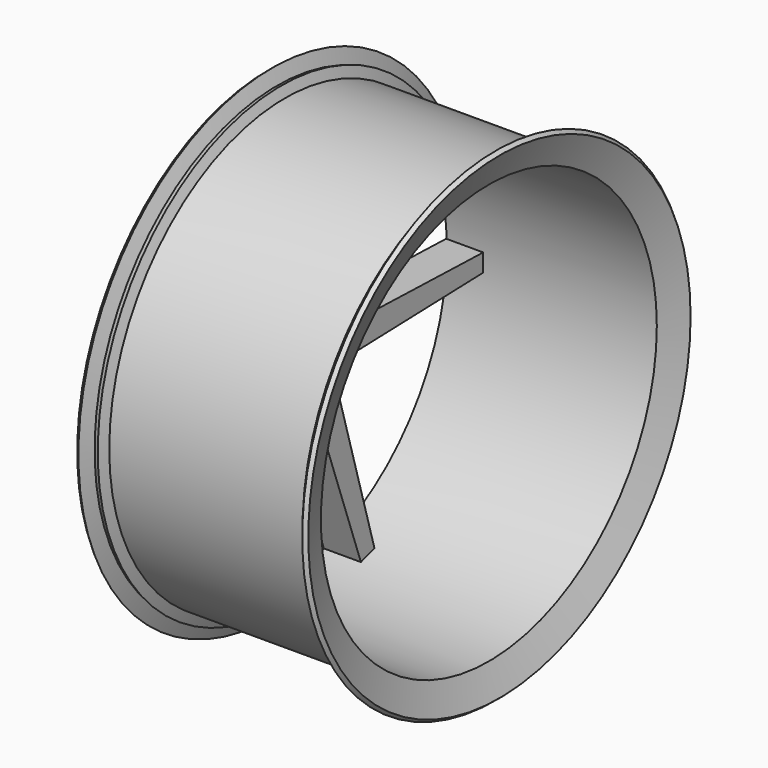
from build123d import *

# Parameters (mm, degrees)
PAD_DEPTH          = 3
POLARPATTERN_COUNT = 5
SKETCH003_R        = 1.21
POCKET_DEPTH       = 5


with BuildPart() as body:
    # Sketch → Revolution (revolve)
    with BuildSketch(Plane.XY):
        Polygon((-0.85505, 19.349232), (0, 17), (17, 17), (17.85505, 19.349232), (17.561434, 19.595605), (17.15135, 18.468908), (16.791176, 18.6), (16.5, 17.8), (0.5, 17.8), (0.208824, 18.6), (-0.15135, 18.468908), (-0.561434, 19.595605), align=None)
    revolve(axis=Axis((0, 0, 0), (1, 0, 0)))


with BuildPart() as body001:
    # Sketch002 → Pad (new body)
    with BuildSketch(Plane.YZ):
        Polygon((0, 1.235), (16.93, 0.72), (16.93, -0.72), (0, -1.235), align=None)
    pad = extrude(amount=PAD_DEPTH)

    # PolarPattern: Pad ×5 about axis
    polarpattern_axis = Axis((0, 0, 0), (1, 0, 0))
    for i in range(1, POLARPATTERN_COUNT):
        add(pad.rotate(polarpattern_axis, i * 360 / POLARPATTERN_COUNT))

    # Sketch003 → Pocket (cut)
    with BuildSketch(Plane.YZ):
        with Locations((0.017273, 0.050977)):
            Circle(SKETCH003_R)
    extrude(amount=POCKET_DEPTH, mode=Mode.SUBTRACT)


solid = Compound([body.part, body001.part])
